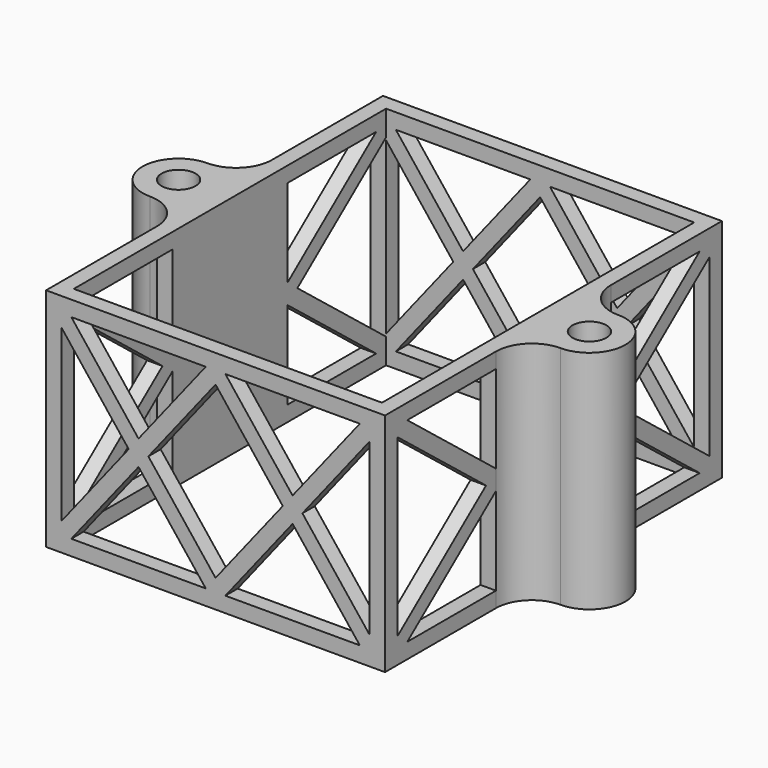
from build123d import *

# Parameters (mm, degrees)
SKETCH017_R     = 1.65
SKETCH017_W     = 30
SKETCH017_H     = 38
PAD012_DEPTH    = 22
POCKET057_DEPTH = 41.001
POCKET058_DEPTH = 40.001


with BuildPart() as part:
    # Sketch017 → Pad012 (new body)
    with BuildSketch(Plane.XY):
        with BuildLine():
            Line((-16.5, 18.5), (16.5, 18.5))
            Line((16.5, 18.5), (16.5, 32))
            ThreePointArc((20, 35.5), (17.525126, 34.474874), (16.5, 32))
            ThreePointArc((20, 35.5), (23.5, 39), (20, 42.5))
            ThreePointArc((16.5, 46), (17.525126, 43.525126), (20, 42.5))
            Line((16.5, 59.5), (16.5, 46))
            Line((-16.5, 59.5), (16.5, 59.5))
            Line((-16.5, 59.5), (-16.5, 46))
            ThreePointArc((-20, 42.5), (-17.525126, 43.525126), (-16.5, 46))
            ThreePointArc((-20, 42.5), (-23.5, 39), (-20, 35.5))
            ThreePointArc((-16.5, 32), (-17.525126, 34.474874), (-20, 35.5))
            Line((-16.5, 18.5), (-16.5, 32))
        make_face()
        with Locations((-20, 39)):
            Circle(SKETCH017_R, mode=Mode.SUBTRACT)
        with Locations((20, 39)):
            Circle(SKETCH017_R, mode=Mode.SUBTRACT)
        with Locations((0, 39)):
            Rectangle(SKETCH017_W, SKETCH017_H, mode=Mode.SUBTRACT)
    extrude(amount=PAD012_DEPTH)

    # Sketch111 (on Face7 of Pad012) → Pocket057 (cut, through all)
    with BuildSketch(Plane(origin=(0, 59.5, 0), x_dir=(-1, 0, 0), z_dir=(0, 1, 0))):
        Polygon((-15, 2.710372), (-8.455557, 11), (-15, 19.289628), align=None)
        Polygon((-14.044443, 1.5), (-7.5, 9.789628), (-0.955557, 1.5), align=None)
        Polygon((-14.044443, 20.5), (-0.955557, 20.5), (-7.5, 12.210372), align=None)
        Polygon((-6.544443, 11), (0, 19.289628), (6.544443, 11), (0, 2.710372), align=None)
        Polygon((0.955557, 1.5), (7.5, 9.789628), (14.044443, 1.5), align=None)
        Polygon((8.455557, 11), (15, 2.710372), (15, 19.289628), align=None)
        Polygon((7.5, 12.210372), (0.955557, 20.5), (14.044443, 20.5), align=None)
    extrude(amount=-POCKET057_DEPTH, mode=Mode.SUBTRACT)

    # Sketch112 (on Face2 of Pocket057) → Pocket058 (cut, through all)
    with BuildSketch(Plane(origin=(-16.5, 0, 0), x_dir=(0, -1, 0), z_dir=(-1, 0, 0))):
        Polygon((-56.791693, 1.5), (-46, 10.043423), (-46, 1.5), align=None)
        Polygon((-58, 2.456577), (-58, 19.543423), (-47.208307, 11), align=None)
        Polygon((-32, 1.5), (-32, 10.043423), (-21.208307, 1.5), align=None)
        Polygon((-32, 20.5), (-32, 11.956577), (-21.208307, 20.5), align=None)
        Polygon((-30.791693, 11), (-20, 19.543423), (-20, 2.456577), align=None)
        Polygon((-46, 11.956577), (-46, 20.5), (-56.791693, 20.5), align=None)
    extrude(amount=-POCKET058_DEPTH, mode=Mode.SUBTRACT)


with BuildPart() as part_1:
    # Body011 placement: moved
    add(part.part.moved(Location((0, 0, 59.7))))


solid = part_1.part
